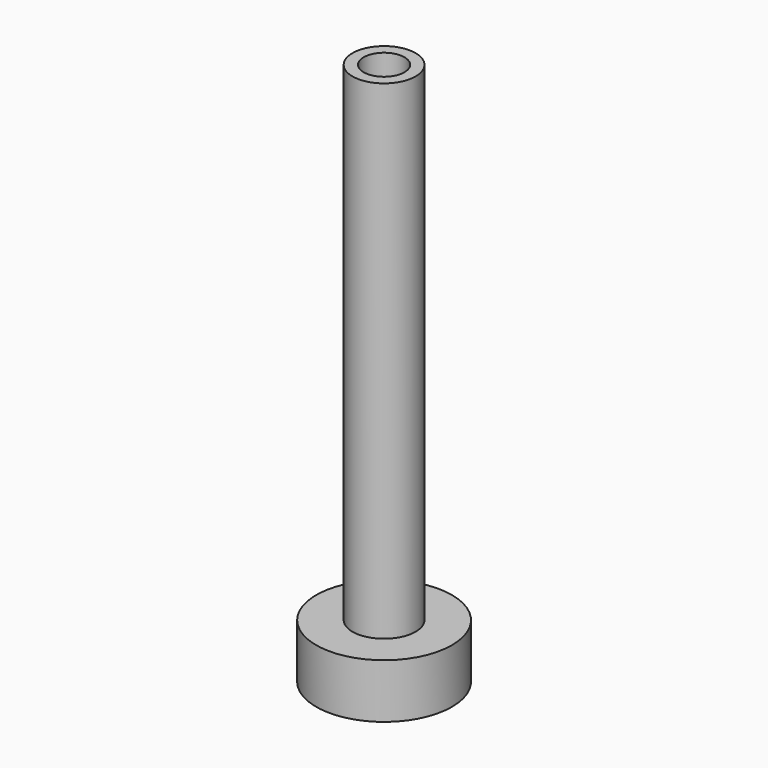
from build123d import *

# Parameters (mm, degrees)
F0_R     = 2.325
F1_DEPTH = 40
F0_R_2   = 5
F2_DEPTH = 4
F3_R     = 1.5
F4_DEPTH = 12


with BuildPart() as f1:
    # F0 (on Top) → F1 (new body)
    with BuildSketch(Plane.XY):
        Circle(F0_R)
    extrude(amount=F1_DEPTH)

    # F0 (on Top) → F2 (join)
    with BuildSketch(Plane.XY):
        Circle(F0_R_2)
        Circle(F0_R, mode=Mode.SUBTRACT)
    extrude(amount=F2_DEPTH)

    # F3 (on face) → F4 (cut)
    with BuildSketch(Plane.XY.offset(40)):
        Circle(F3_R)
    extrude(amount=-F4_DEPTH, mode=Mode.SUBTRACT)


solid = f1.part
